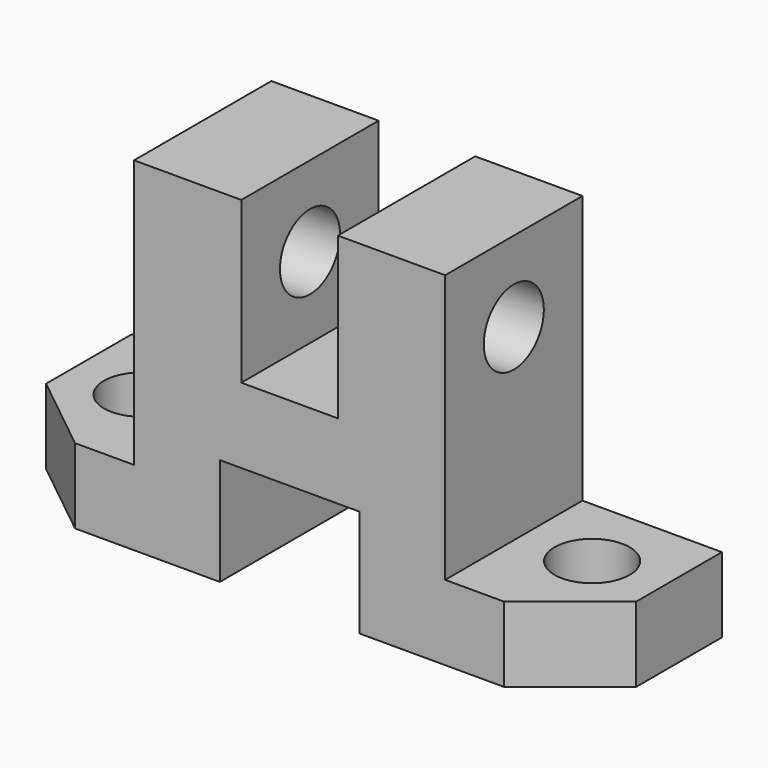
from build123d import *

# Parameters (mm, degrees)
PAD_DEPTH       = 16
POCKET_DEPTH    = 7
SKETCH002_R     = 3.5
POCKET001_DEPTH = 42.001
SKETCH003_R     = 3.5
POCKET002_DEPTH = 7


with BuildPart() as part:
    # Sketch → Pad (new body)
    with BuildSketch(Plane.XZ):
        Polygon((-27.5, 7), (-27.5, 0), (-6.5, 0), (-6.5, 10), (6.5, 10), (6.5, 0), (27.5, 0), (27.5, 7), (14.5, 7), (14.5, 32), (4.5, 32), (4.5, 17), (-4.5, 17), (-4.5, 32), (-14.5, 32), (-14.5, 7), align=None)
    extrude(amount=PAD_DEPTH)

    # Sketch001 (on Face6 of Pad) → Pocket (cut)
    with BuildSketch(Plane(origin=(0, 0, 0), x_dir=(1, 0, 0), z_dir=(0, 0, -1))):
        Polygon((-27.5, 16), (-27.5, 10), (-20, 16), align=None)
        Polygon((20, 16), (27.5, 16), (27.5, 10), align=None)
    extrude(amount=-POCKET_DEPTH, mode=Mode.SUBTRACT)

    # Sketch002 (on Face12 of Pocket) → Pocket001 (cut, through all)
    with BuildSketch(Plane(origin=(14.5, 0, 0), x_dir=(0, 0, 1), z_dir=(1, 0, 0))):
        with Locations((24.5, 8)):
            Circle(SKETCH002_R)
    extrude(amount=-POCKET001_DEPTH, mode=Mode.SUBTRACT)

    # Sketch003 (on Face11 of Pocket001) → Pocket002 (cut)
    with BuildSketch(Plane(origin=(0, 0, 7), x_dir=(-1, 0, 0), z_dir=(0, 0, 1))):
        with Locations((21, 7)):
            Circle(SKETCH003_R)
        with Locations((-21, 7)):
            Circle(SKETCH003_R)
    extrude(amount=-POCKET002_DEPTH, mode=Mode.SUBTRACT)


solid = part.part
